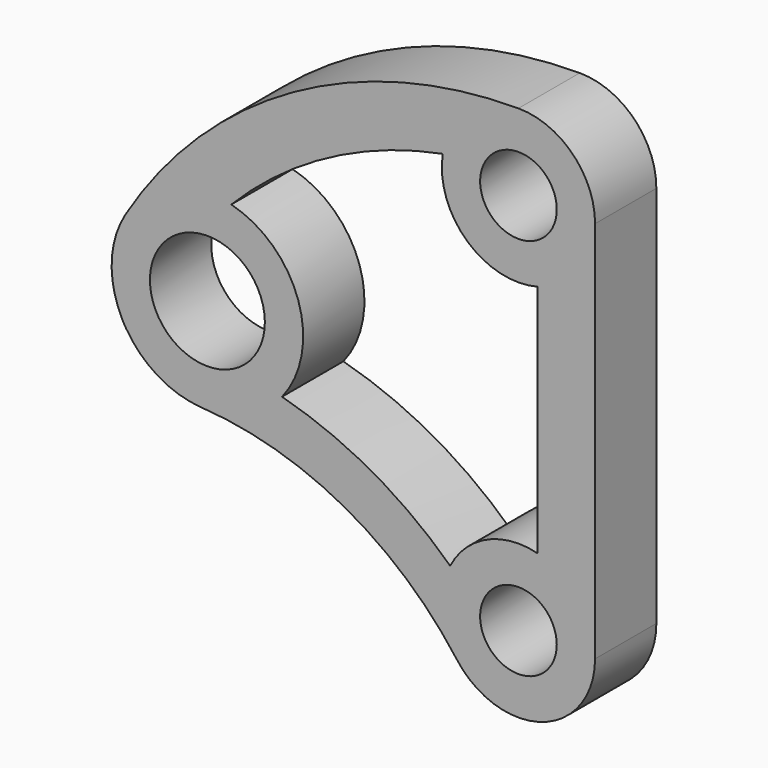
from build123d import *

# Parameters (mm, degrees)
F0_R     = 381
F0_R_2   = 254
F1_DEPTH = 508


with BuildPart() as f1:
    # F0 (on Front) → F1 (new body)
    with BuildSketch(Plane.XZ):
        with BuildLine():
            Line((508, -2540), (508, 0))
            ThreePointArc((508, 0), (359.210245, 359.210245), (0, 508))
            ThreePointArc((0, 508), (-1494.607046, 116.398648), (-2605.165444, -957.780986))
            ThreePointArc((-2605.165444, -957.780986), (-2696.960404, -1263.185372), (-2628.717375, -1574.699484))
            ThreePointArc((-2628.717375, -1574.699484), (-2626.752641, -1578.539908), (-2624.761863, -1582.366897))
            ThreePointArc((-2624.761863, -1582.366897), (-2614.366803, -1601.388681), (-2603.328551, -1620.04458))
            ThreePointArc((-2603.328551, -1620.04458), (-2389.482729, -1831.704629), (-2102.207052, -1921.162424))
            ThreePointArc((-2102.207052, -1921.162424), (-1153.361276, -2194.393496), (-408.260168, -2842.303879))
            ThreePointArc((-408.260168, -2842.303879), (159.16632, -3022.421064), (508, -2540))
        make_face()
        with Locations((-2062.422644, -1287.409948)):
            Circle(F0_R, mode=Mode.SUBTRACT)
        with Locations((0, -2540)):
            Circle(F0_R_2, mode=Mode.SUBTRACT)
        with BuildLine():
            ThreePointArc((-1904.016184, -672.485242), (-1260.263397, -189.54788), (-501.76051, 79.375))
            ThreePointArc((-501.76051, 79.375), (-341.601016, -375.995673), (127, -491.868885))
            Line((127, -491.868885), (127, -2048.131115))
            ThreePointArc((127, -2048.131115), (-208.796039, -2076.89287), (-452.691028, -2309.490059))
            ThreePointArc((-452.691028, -2309.490059), (-971.187497, -1927.950393), (-1567.362196, -1685.078344))
            ThreePointArc((-1567.362196, -1685.078344), (-1459.85236, -1087.075096), (-1904.016184, -672.485242))
        make_face(mode=Mode.SUBTRACT)
        Circle(F0_R_2, mode=Mode.SUBTRACT)
    extrude(amount=-F1_DEPTH)


solid = f1.part
